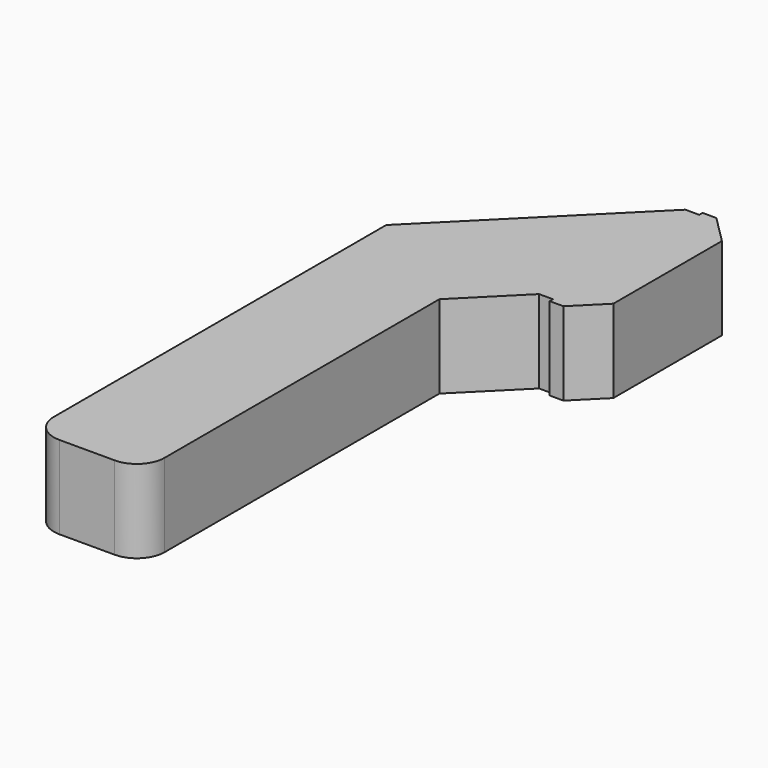
from build123d import *

# Parameters (mm, degrees)
F1_DEPTH = 3
F2_W     = 0.15
F2_H     = 3
F3_DEPTH = 1.5
F4_SIZE  = 1
F5_R     = 1


with BuildPart() as f1:
    # F0 (on Top) → F1 (new body)
    with BuildSketch(Plane.XY):
        Polygon((2, 22), (-4, 16), (-4, 0), (0, 0), (0, 13.4), (2, 15.4), (4, 15.4), (4, 22), align=None)
    extrude(amount=F1_DEPTH)

    # F2 (on face) → F3 (join)
    with BuildSketch(Plane.YZ.offset(4)):
        with Locations((15.325, 1.5)):
            Rectangle(F2_W, F2_H)
        with Locations((22.075, 1.5)):
            Rectangle(F2_W, F2_H)
    extrude(amount=-F3_DEPTH)

    # F4
    f4_edges = [f1.edges().sort_by_distance(p)[0] for p in [
        (4, 15.25, 1.5),
        (4, 22.15, 1.5),
    ]]
    chamfer(f4_edges, length=F4_SIZE)

    # F5
    f5_edges = [f1.edges().sort_by_distance(p)[0] for p in [
        (0, 0, 1.5),
        (-4, 0, 1.5),
    ]]
    fillet(f5_edges, radius=F5_R)


solid = f1.part
